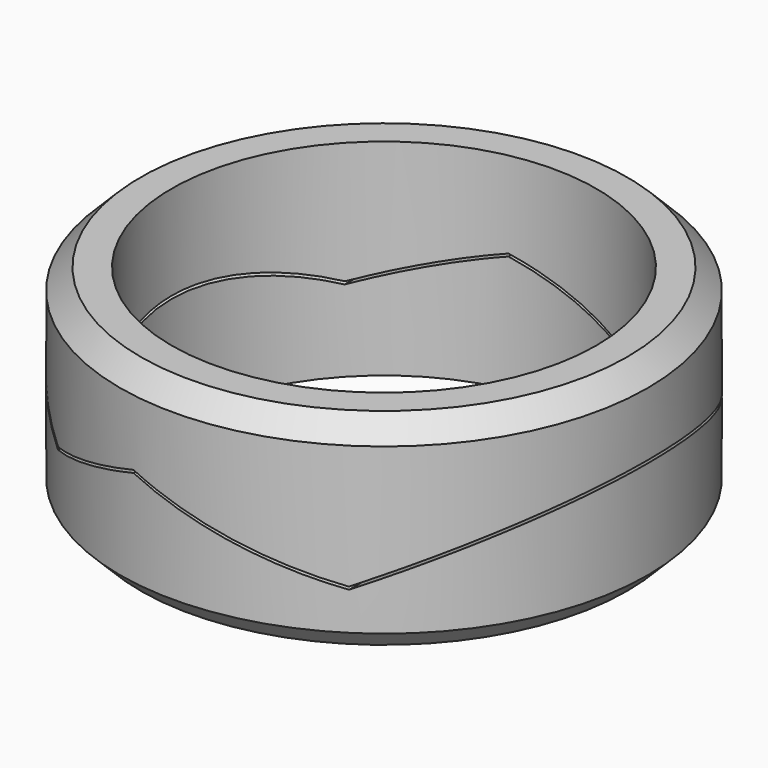
from build123d import *

# Parameters (mm, degrees)
F0_R          = 10.25
F0_R_2        = 8.25
F1_DEPTH      = 8
F3_DEPTH      = 25
F3_DEPTH_BACK = 25
F4_SIZE       = 0.8


with BuildPart() as f1:
    # F0 (on Top) → F1 (new body)
    with BuildSketch(Plane.XY):
        Circle(F0_R)
        Circle(F0_R_2, mode=Mode.SUBTRACT)
    extrude(amount=F1_DEPTH)

    # F2 (on Front) → F3 (cut, two sides)
    with BuildSketch(Plane.XZ) as f3_sk:
        Polygon((-10.25, 5.3059905923), (-10.25, 5.1949330701), (-6.0306870126, 3.1566191479), (-1.6328110061, 4.5422517004), (5.5420904013, 2.2737164901), (10.25, 4.6241584094), (10.25, 4.7359284587), (9.7439247371, 4.4832684431), (5.5336400042, 2.3812676462), (-1.632758179, 4.6471143369), (-6.022904701, 3.2639171021), align=None)
    extrude(amount=-F3_DEPTH, mode=Mode.SUBTRACT)
    extrude(f3_sk.sketch, amount=F3_DEPTH_BACK, mode=Mode.SUBTRACT)

    # F4
    f4_edges = [f1.edges().sort_by_distance(p)[0] for p in [
        (-10.25, 0, 8),
        (-10.25, 0, 0),
    ]]
    chamfer(f4_edges, length=F4_SIZE)


solid = f1.part
